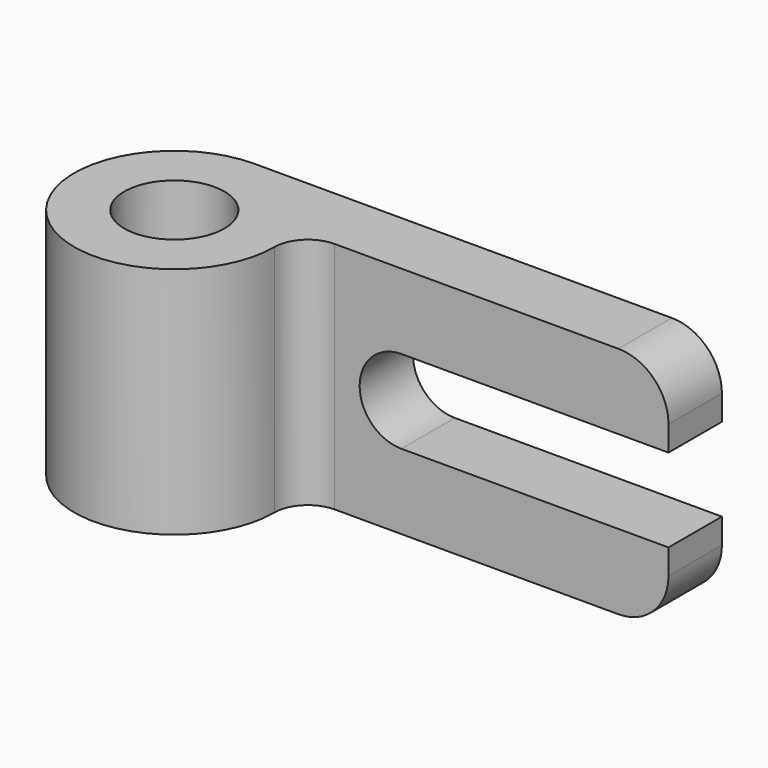
from build123d import *

# Parameters (mm, degrees)
F0_R     = 9.525
F1_DEPTH = 44.45
F2_W     = 9.525
F2_H     = 4.7625
F3_DEPTH = 12.7
F5_DEPTH = 12.7


with BuildPart() as f1:
    # F0 (on Top) → F1 (new body)
    with BuildSketch(Plane.XY):
        with BuildLine():
            Line((79.375, 19.05), (0, 19.05))
            ThreePointArc((0, 19.05), (-13.470384, -13.470384), (19.05, 0))
            ThreePointArc((19.05, 0), (20.909872, 4.490128), (25.4, 6.35))
            Line((25.4, 6.35), (79.375, 6.35))
            Line((79.375, 6.35), (79.375, 19.05))
        make_face()
        Circle(F0_R, mode=Mode.SUBTRACT)
    extrude(amount=F1_DEPTH)

    # F2 (on face) → F3 (join)
    with BuildSketch(Plane.XZ.offset(-6.35)):
        with BuildLine():
            Line((79.375, 34.925), (88.9, 34.925))
            ThreePointArc((88.9, 34.925), (86.110192, 41.660192), (79.375, 44.45))
            Line((79.375, 44.45), (79.375, 34.925))
        make_face()
        with Locations((84.1375, 32.54375)):
            Rectangle(F2_W, F2_H)
        with BuildLine():
            Line((79.375, 9.525), (79.375, 0))
            ThreePointArc((79.375, 0), (86.110192, 2.789808), (88.9, 9.525))
            Line((88.9, 9.525), (79.375, 9.525))
        make_face()
        with Locations((84.1375, 11.90625)):
            Rectangle(F2_W, F2_H)
    extrude(amount=-F3_DEPTH)

    # F4 (on face) → F5 (cut)
    with BuildSketch(Plane.XZ.offset(-6.35)):
        with BuildLine():
            Line((79.375, 30.1625), (38.1, 30.1625))
            ThreePointArc((38.1, 30.1625), (30.1625, 22.225), (38.1, 14.2875))
            Line((38.1, 14.2875), (79.375, 14.2875))
            Line((79.375, 14.2875), (79.375, 30.1625))
        make_face()
    extrude(amount=-F5_DEPTH, mode=Mode.SUBTRACT)


solid = f1.part
